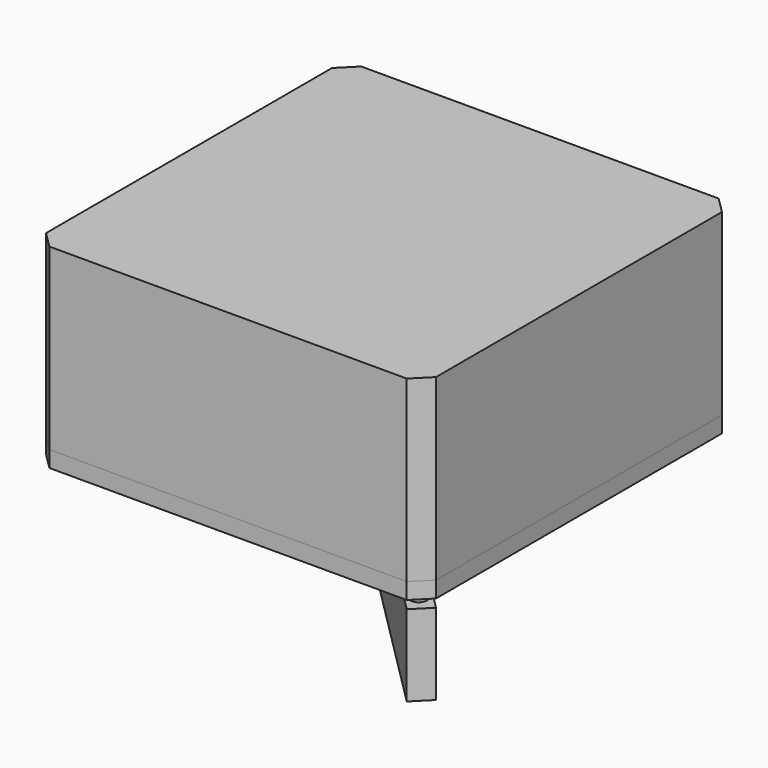
from build123d import *

# Parameters (mm, degrees)
SKETCH_W        = 24
SKETCH_H        = 24
SKETCH_W_2      = 20
SKETCH_H_2      = 20
PAD_DEPTH       = 10
SKETCH001_W     = 24
SKETCH001_H     = 24
PAD001_DEPTH    = 1
CHAMFER_SIZE    = 1
SKETCH002_W     = 24
SKETCH002_H     = 24
PAD002_DEPTH    = 1
SKETCH003_W     = 19
SKETCH003_H     = 19
PAD003_DEPTH    = 0.5
CHAMFER001_SIZE = 1
SKETCH004_R     = 0.5
PAD004_DEPTH    = 0.5
PAD005_DEPTH    = 5


with BuildPart() as box:
    # Sketch → Pad (new body)
    with BuildSketch(Plane.XY):
        with Locations((-10, 10)):
            Rectangle(SKETCH_W, SKETCH_H)
        with Locations((-10, 10)):
            Rectangle(SKETCH_W_2, SKETCH_H_2, mode=Mode.SUBTRACT)
    extrude(amount=PAD_DEPTH)

    # Sketch001 (on Face10 of Pad) → Pad001 (join)
    with BuildSketch(Plane.XY.offset(10)):
        with Locations((-10, 10)):
            Rectangle(SKETCH001_W, SKETCH001_H)
    extrude(amount=PAD001_DEPTH)

    # Chamfer
    chamfer_edges = [box.edges().sort_by_distance(p)[0] for p in [
        (-22, 22, 5),
        (2, 22, 5),
        (2, -2, 5),
        (-22, -2, 5),
    ]]
    chamfer(chamfer_edges, length=CHAMFER_SIZE)


with BuildPart() as cap:
    # Sketch002 (on Face1 of ShapeBinder) → Pad002 (new body)
    with BuildSketch(Plane(origin=(0, 0, 0), x_dir=(1, 0, 0), z_dir=(0, 0, -1))):
        with Locations((-10, -10)):
            Rectangle(SKETCH002_W, SKETCH002_H)
    extrude(amount=PAD002_DEPTH)

    # Sketch003 (on Face1 of ShapeBinder) → Pad003 (join)
    with BuildSketch(Plane(origin=(0, 0, 0), x_dir=(1, 0, 0), z_dir=(0, 0, -1))):
        with Locations((-10, -10)):
            Rectangle(SKETCH003_W, SKETCH003_H)
    extrude(amount=-PAD003_DEPTH)

    # Chamfer001
    chamfer001_edges = [cap.edges().sort_by_distance(p)[0] for p in [
        (2, -2, -0.5),
        (-22, -2, -0.5),
        (-22, 22, -0.5),
        (2, 22, -0.5),
    ]]
    chamfer(chamfer001_edges, length=CHAMFER001_SIZE)

    # Sketch004 (on Face5 of Chamfer001) → Pad004 (join)
    with BuildSketch(Plane(origin=(0, 0, -1), x_dir=(1, 0, 0), z_dir=(0, 0, -1))):
        with Locations((-20.524008, -20.524008)):
            Circle(SKETCH004_R)
        with Locations((-16.988474, -16.988474)):
            Circle(SKETCH004_R)
        with Locations((-13.452941, -13.452941)):
            Circle(SKETCH004_R)
        with Locations((-9.917407, -9.917407)):
            Circle(SKETCH004_R)
        with Locations((-6.381873, -6.381873)):
            Circle(SKETCH004_R)
        with Locations((-2.846339, -2.846339)):
            Circle(SKETCH004_R)
        with Locations((0.689195, 0.689195)):
            Circle(SKETCH004_R)
    extrude(amount=PAD004_DEPTH)

    # Sketch005 (on Face27 of Pad004) → Pad005 (join)
    with BuildSketch(Plane(origin=(0, 0, -1.5), x_dir=(1, 0, 0), z_dir=(0, 0, -1))):
        Polygon((1, 2), (-22, -21), (-21, -22), (2, 1), align=None)
    extrude(amount=PAD005_DEPTH)


solid = Compound([box.part, cap.part])
